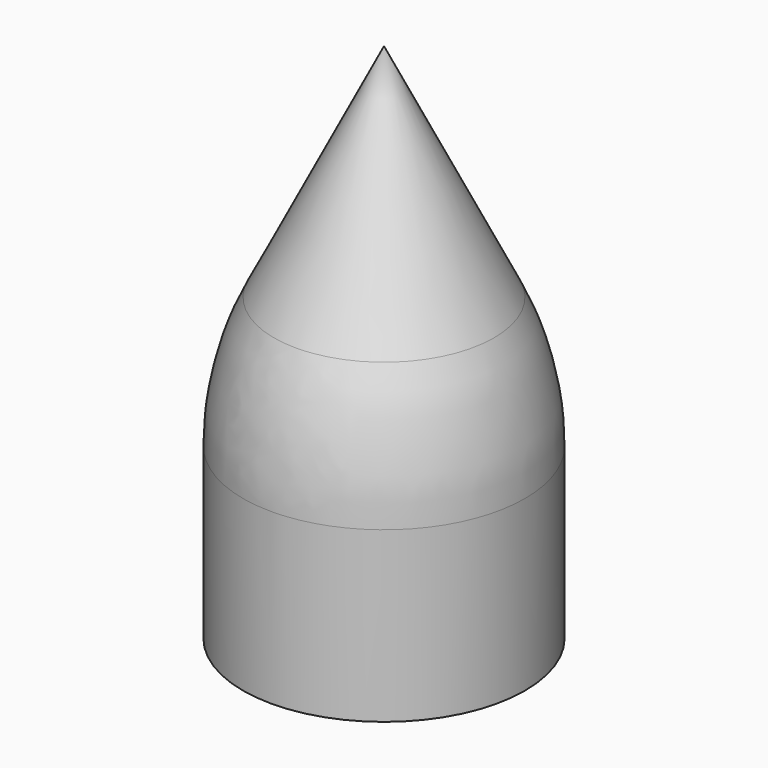
from build123d import *

# Parameters (mm, degrees)
F2_R = 5


with BuildPart() as f1:
    # F0 (on Right) → F1 (revolve)
    with BuildSketch(Plane.YZ):
        Polygon((-2.39349, 0), (0, 0), (0, 8.850616), (-2.39349, 4.046879), align=None)
    revolve(axis=Axis((0, 0, 4.425308), (0, 0, -1)))

    # F2
    f2_edges = [f1.edges().sort_by_distance(p)[0] for p in [
        (0, 2.39349, 4.046879),
    ]]
    fillet(f2_edges, radius=F2_R)


solid = f1.part
